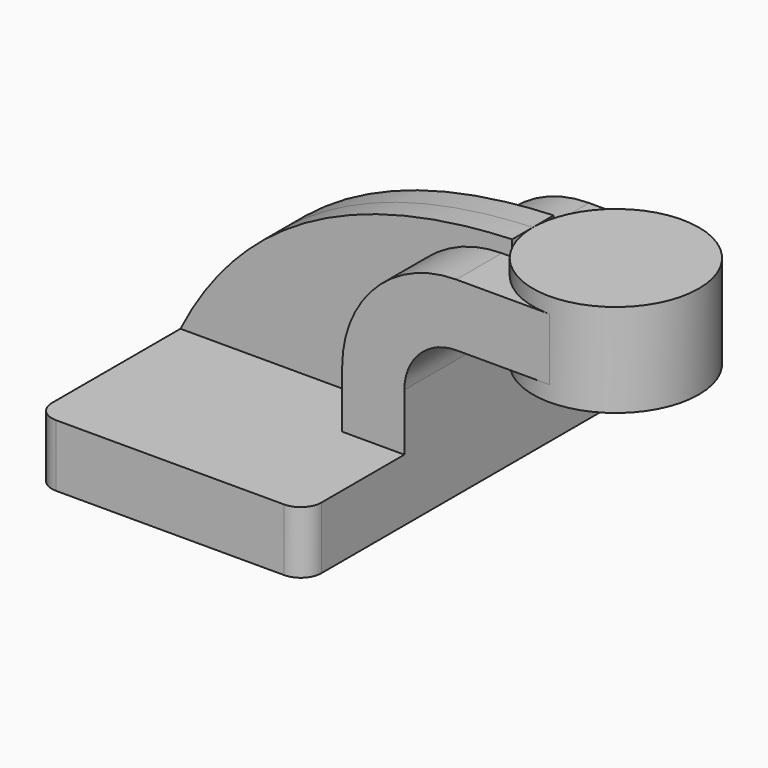
from build123d import *

# Parameters (mm, degrees)
F0_W     = 25.4
F0_H     = 19.05
F1_DEPTH = 25.4
F2_DEPTH = 63.5
F3_DEPTH = 7.9375
F5_R     = 6.35


with BuildPart() as f1:
    # F0 (on Front) → F1 (new body, symmetric)
    with BuildSketch(Plane.XZ):
        with BuildLine():
            Line((22.225, 9.525), (41.275, 9.525))
            Line((41.275, 9.525), (41.275, 26.9748))
            ThreePointArc((41.275, 26.9748), (45.9246798487, 38.2001201513), (57.15, 42.8498))
            Line((57.15, 42.8498), (60.325, 42.8498))
            Line((60.325, 42.8498), (60.325, 61.8998))
            Line((60.325, 61.8998), (57.15, 61.8998))
            ThreePointArc((57.15, 61.8998), (32.4542956671, 51.6705043329), (22.225, 26.9748))
            Line((22.225, 26.9748), (22.225, 9.525))
        make_face()
        with Locations((73.025, 52.3748)):
            Rectangle(F0_W, F0_H)
    extrude(amount=F1_DEPTH, both=True)

    # F0 (on Front) → F2 (join, symmetric)
    with BuildSketch(Plane.XZ):
        Polygon((-41.275, 9.525), (-41.275, -9.525), (41.275, -9.525), (41.275, 9.525), (22.225, 9.525), align=None)
    extrude(amount=F2_DEPTH, both=True)

    # F0 (on Front) → F3 (join, symmetric)
    with BuildSketch(Plane.XZ):
        with BuildLine():
            add(Edge.make_bspline(
                [(-41.275, 9.525), (-23.0651199818, 45.6923060119), (10.5106914416, 64.6699368954), (60.325, 66.675)],
                knots=[0, 0, 0, 0, 116.5705044169, 116.5705044169, 116.5705044169, 116.5705044169], degree=3))
            Line((-41.275, 9.525), (22.225, 9.525))
            Line((22.225, 9.525), (22.225, 26.9748))
            ThreePointArc((22.225, 26.9748), (32.4542956671, 51.6705043329), (57.15, 61.8998))
            Line((57.15, 61.8998), (60.325, 61.8998))
            Line((60.325, 61.8998), (60.325, 66.675))
        make_face()
    extrude(amount=F3_DEPTH, both=True)

    # F5
    f5_edges = [f1.edges().sort_by_distance(p)[0] for p in [
        (-41.275, -63.5, 0),
        (41.275, -63.5, 0),
        (41.275, 63.5, 0),
        (-41.275, 63.5, 0),
    ]]
    fillet(f5_edges, radius=F5_R)


with BuildPart() as f4:
    # F0 (on Front) → F4 (revolve)
    with BuildSketch(Plane.XZ):
        Polygon((111.125, 66.675), (85.725, 66.675), (85.725, 61.8998), (85.725, 42.8498), (85.725, 38.1), (111.125, 38.1), align=None)
    revolve(axis=Axis((85.725, 0, 52.3875), (0, 0, 1)))


solid = Compound([f1.part, f4.part])
